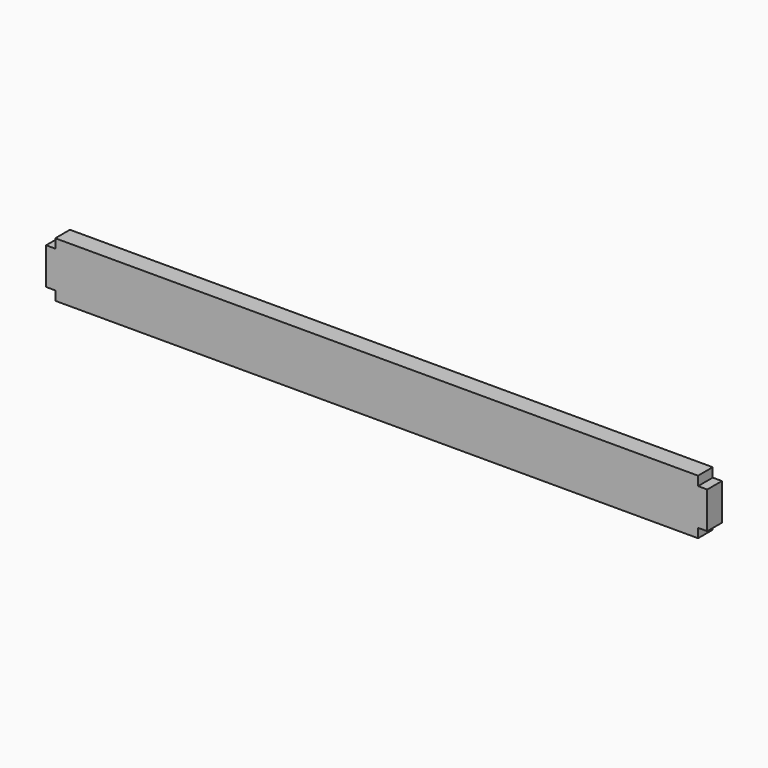
from build123d import *

# Parameters (mm, degrees)
F0_W     = 20
F0_H     = 60
F1_DEPTH = 700
F2_W     = 20
F2_H     = 40
F3_DEPTH = 10
F4_W     = 20
F4_H     = 40
F5_DEPTH = 10


with BuildPart() as f1:
    # F0 (on Right) → F1 (new body)
    with BuildSketch(Plane.YZ):
        with Locations((10, -30)):
            Rectangle(F0_W, F0_H)
    extrude(amount=F1_DEPTH)

    # F2 (on face) → F3 (join)
    with BuildSketch(Plane(origin=(0, 0, 0), x_dir=(0, -1, 0), z_dir=(-1, 0, 0))):
        with Locations((-10, -30)):
            Rectangle(F2_W, F2_H)
    extrude(amount=F3_DEPTH)

    # F4 (on face) → F5 (join)
    with BuildSketch(Plane.YZ.offset(700)):
        with Locations((10, -30)):
            Rectangle(F4_W, F4_H)
    extrude(amount=F5_DEPTH)


solid = f1.part
